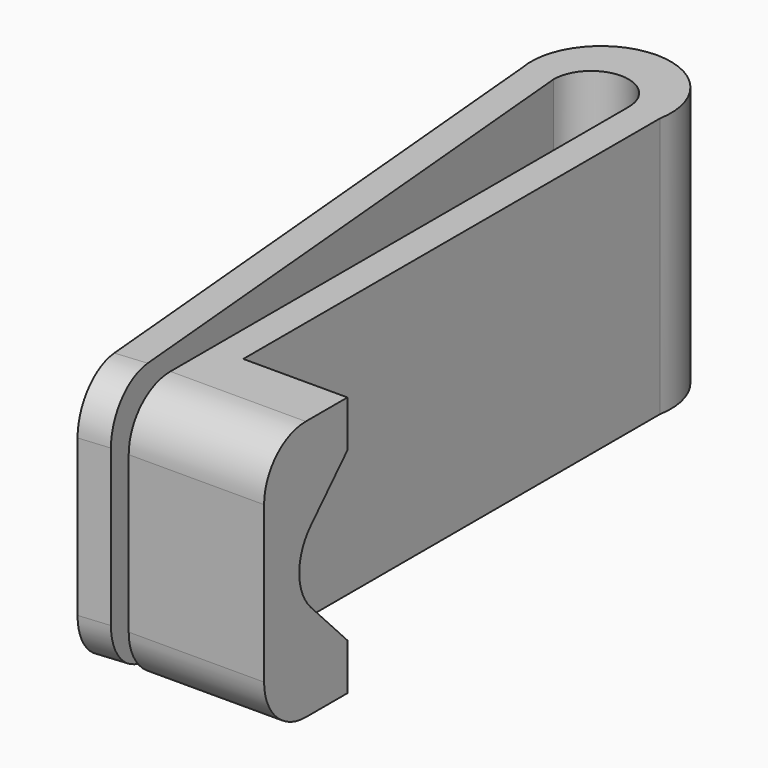
from build123d import *

# Parameters (mm, degrees)
F1_DEPTH  = 25
F4_DEPTH  = 10
F5_R      = 5
F6_R      = 5
F9_DEPTH  = 3
F11_DEPTH = 3
F12_DEPTH = 3
F13_DEPTH = 3
F15_DEPTH = 3
F16_DEPTH = 3


with BuildPart() as f1:
    # F0 (on Top) → F1 (new body)
    with BuildSketch(Plane.XY):
        with BuildLine():
            ThreePointArc((-3.6, 0), (0, 3.6), (3.6, 0))
            Line((3.6, 0), (3.6, -60))
            Line((3.6, -60), (6.6, -60))
            Line((6.6, -60), (16.6, -60))
            Line((16.6, -60), (16.6, -50))
            Line((16.6, -50), (6.6, -50))
            Line((6.6, -50), (6.6, -46.6112606227))
            Line((6.6, -46.6112606227), (6.6, 0))
            ThreePointArc((6.6, 0), (-0.0062780621, 7.8958150293), (-6.6125561241, 0))
            Line((-6.6125561241, 0), (-1.092247319, -60.2736172538))
            Line((-1.092247319, -60.2736172538), (1.8952488899, -60))
            Line((1.8952488899, -60), (-3.6, 0))
        make_face()
    extrude(amount=F1_DEPTH)

    # F3 (on offset) → F4 (cut)
    with BuildSketch(Plane.YZ.offset(16.6)):
        Polygon((-50, 4.4644676149), (-50, 20.5355323851), (-57.7130019665, 12.5), align=None)
    extrude(amount=-F4_DEPTH, mode=Mode.SUBTRACT)

    # F5
    f5_edges = [f1.edges().sort_by_distance(p)[0] for p in [
        (11.6, -57.713002, 12.5),
    ]]
    fillet(f5_edges, radius=F5_R)

    # F6
    f6_edges = [f1.edges().sort_by_distance(p)[0] for p in [
        (10.1, -60, 25),
        (0.401501, -60.136809, 25),
        (0.401501, -60.136809, 0),
        (10.1, -60, 0),
    ]]
    fillet(f6_edges, radius=F6_R)

    # F8 (on offset) → F9 (cut)
    with BuildSketch(Plane(origin=(-6.5575496483, -0.6005894571, 0), x_dir=(0.0912057513, -0.9958320696, 0), z_dir=(-0.9958320696, -0.0912057513, 0))):
        Polygon((50.7572274613, 5.7645259433), (50.7073389376, 18.5243248538), (42.9624207318, 16.050029546), (47.2042858601, 6.8593267351), align=None)
    extrude(amount=-F9_DEPTH, mode=Mode.SUBTRACT)

    # F10 (on offset) → F12 (cut)
    with BuildSketch(Plane(origin=(-6.5575496483, -0.6005894571, 0), x_dir=(0.0912057513, -0.9958320696, 0), z_dir=(-0.9958320696, -0.0912057513, 0))):
        Polygon((34.9735505879, 13.3536560461), (45.8372877534, 9.8211543656), (42.9624207318, 16.050029546), align=None)
        Polygon((34.9735505879, 13.3536560461), (45.8372877534, 9.8211543656), (42.9624207318, 16.050029546), align=None)
    extrude(amount=-F12_DEPTH, mode=Mode.SUBTRACT)

    # F14 (on offset) → F15 (cut)
    with BuildSketch(Plane(origin=(-6.5575496483, -0.6005894571, 0), x_dir=(0.0912057513, -0.9958320696, 0), z_dir=(-0.9958320696, -0.0912057513, 0))):
        Polygon((34.9735505879, 13.3536560461), (42.9624207318, 16.050029546), (41.5855832398, 18.9179349691), (29.8472139984, 14.9256624281), align=None)
    extrude(amount=-F15_DEPTH, mode=Mode.SUBTRACT)


with BuildPart() as f11:
    # F8 (on offset) → F11 (new body)
    with BuildSketch(Plane(origin=(-6.5575496483, -0.6005894571, 0), x_dir=(0.0912057513, -0.9958320696, 0), z_dir=(-0.9958320696, -0.0912057513, 0))):
        Polygon((50.7572274613, 5.7645259433), (50.7073389376, 18.5243248538), (42.9624207318, 16.050029546), (47.2042858601, 6.8593267351), align=None)
    extrude(amount=-F11_DEPTH)


with BuildPart() as f13:
    # F10 (on offset) → F13 (new body)
    with BuildSketch(Plane(origin=(-6.5575496483, -0.6005894571, 0), x_dir=(0.0912057513, -0.9958320696, 0), z_dir=(-0.9958320696, -0.0912057513, 0))):
        Polygon((34.9735505879, 13.3536560461), (45.8372877534, 9.8211543656), (42.9624207318, 16.050029546), align=None)
    extrude(amount=-F13_DEPTH)


with BuildPart() as f16:
    # F14 (on offset) → F16 (new body)
    with BuildSketch(Plane(origin=(-6.5575496483, -0.6005894571, 0), x_dir=(0.0912057513, -0.9958320696, 0), z_dir=(-0.9958320696, -0.0912057513, 0))):
        Polygon((34.9735505879, 13.3536560461), (42.9624207318, 16.050029546), (41.5855832398, 18.9179349691), (29.8472139984, 14.9256624281), align=None)
    extrude(amount=-F16_DEPTH)


solid = Compound([f1.part, f11.part, f13.part, f16.part])
